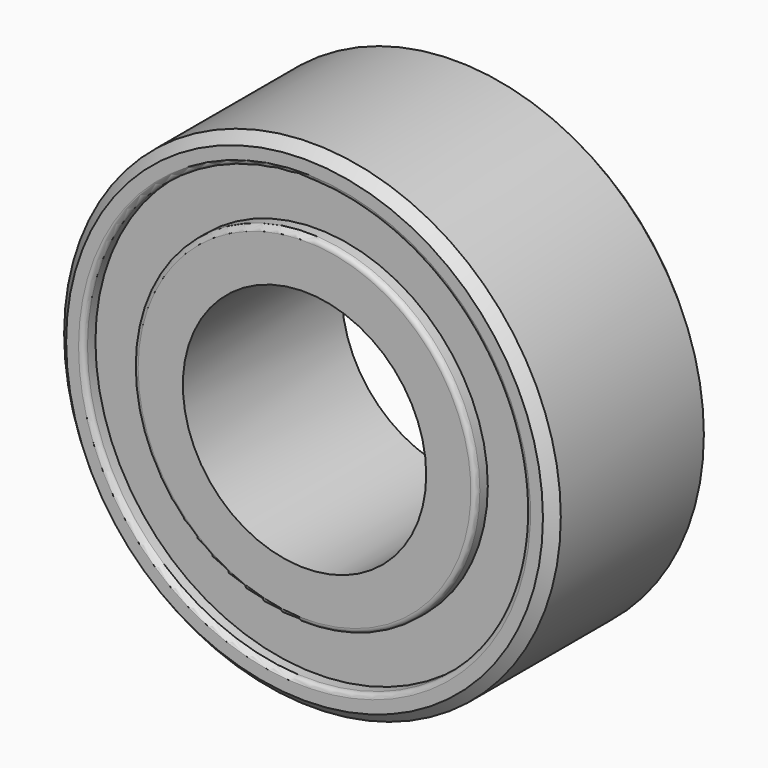
from build123d import *

# Parameters (mm, degrees)
F0_R     = 5
F0_R_2   = 2.45
F1_DEPTH = 4
F3_W     = 1
F3_H     = 1
F5_R     = 0.1
F6_SIZE  = 0.2


with BuildPart() as f1:
    # F0 (on Front) → F1 (new body)
    with BuildSketch(Plane.XZ):
        Circle(F0_R)
        Circle(F0_R_2, mode=Mode.SUBTRACT)
    extrude(amount=F1_DEPTH)

    # F3 (on Top) → F4 (revolve, cut)
    with BuildSketch(Plane.XY):
        with Locations((-3.95, 0.2)):
            Rectangle(F3_W, F3_H)
        with Locations((-3.95, -4.2)):
            Rectangle(F3_W, F3_H)
    revolve(axis=Axis((0, -5.5422200821, 0), (0, -1, 0)), mode=Mode.SUBTRACT)

    # F5
    f5_edges = [f1.edges().sort_by_distance(p)[0] for p in [
        (4.45, 0, 0),
        (3.45, 0, 0),
        (4.45, -4, 0),
        (3.45, -4, 0),
    ]]
    fillet(f5_edges, radius=F5_R)

    # F6
    f6_edges = [f1.edges().sort_by_distance(p)[0] for p in [
        (-5, -4, 0),
        (-5, 0, 0),
    ]]
    chamfer(f6_edges, length=F6_SIZE)


solid = f1.part
